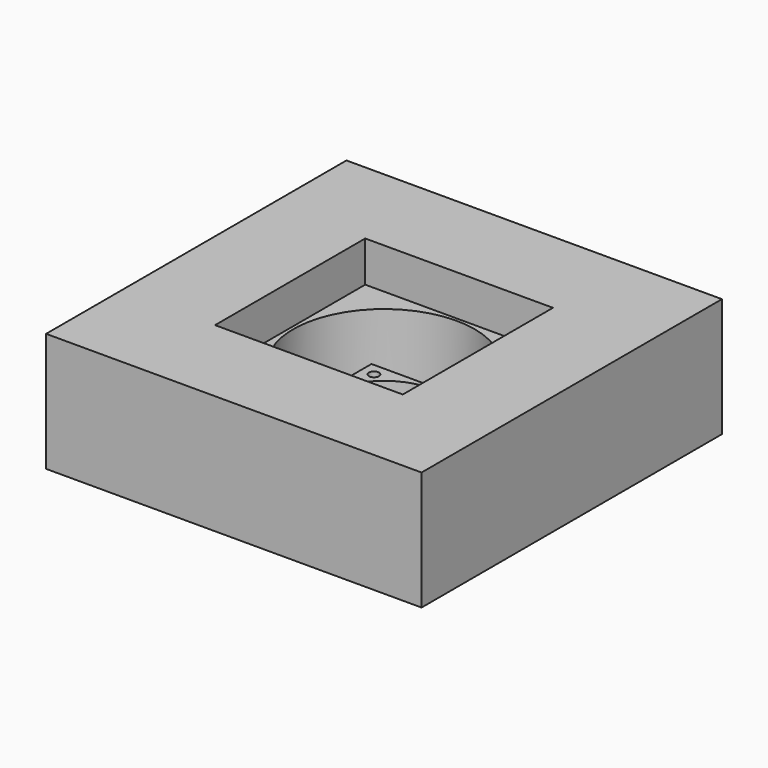
from build123d import *

# Parameters (mm, degrees)
F0_W     = 120
F0_H     = 120
F0_W_2   = 80
F0_H_2   = 80
F0_W_3   = 60
F0_H_3   = 60
F1_DEPTH = 38
F2_DEPTH = 25
F0_R     = 29
F3_DEPTH = 25
F0_W_4   = 40
F0_H_4   = 40
F0_R_2   = 19
F4_DEPTH = 10
F5_D     = 3.2


with BuildPart() as f1:
    # F0 (on Top) → F1 (new body)
    with BuildSketch(Plane.XY):
        Rectangle(F0_W, F0_H)
        Rectangle(F0_W_2, F0_H_2, mode=Mode.SUBTRACT)
        Rectangle(F0_W_2, F0_H_2)
        Rectangle(F0_W_3, F0_H_3, mode=Mode.SUBTRACT)
    extrude(amount=F1_DEPTH)


with BuildPart() as f2:
    # F0 (on Top) → F2 (new body)
    with BuildSketch(Plane.XY):
        Rectangle(F0_W_2, F0_H_2)
        Rectangle(F0_W_3, F0_H_3, mode=Mode.SUBTRACT)
    extrude(amount=F2_DEPTH)


with BuildPart() as f3:
    # F0 (on Top) → F3 (new body)
    with BuildSketch(Plane.XY):
        Rectangle(F0_W_3, F0_H_3)
        Circle(F0_R, mode=Mode.SUBTRACT)
    extrude(amount=F3_DEPTH)


with BuildPart() as f4:
    # F0 (on Top) → F4 (new body)
    with BuildSketch(Plane.XY):
        Rectangle(F0_W_4, F0_H_4)
        Circle(F0_R_2, mode=Mode.SUBTRACT)
    extrude(amount=F4_DEPTH)

    # F5 (through all)
    with Locations(Plane(origin=(0, 0, 0), x_dir=(1, 0, 0), z_dir=(0, 0, -1))):
        with Locations((-16.000001, 16), (16, 16), (16.000001, -16), (-16, -16)):
            Hole(F5_D / 2)


solid = Compound([f1.part, f2.part, f3.part, f4.part])
